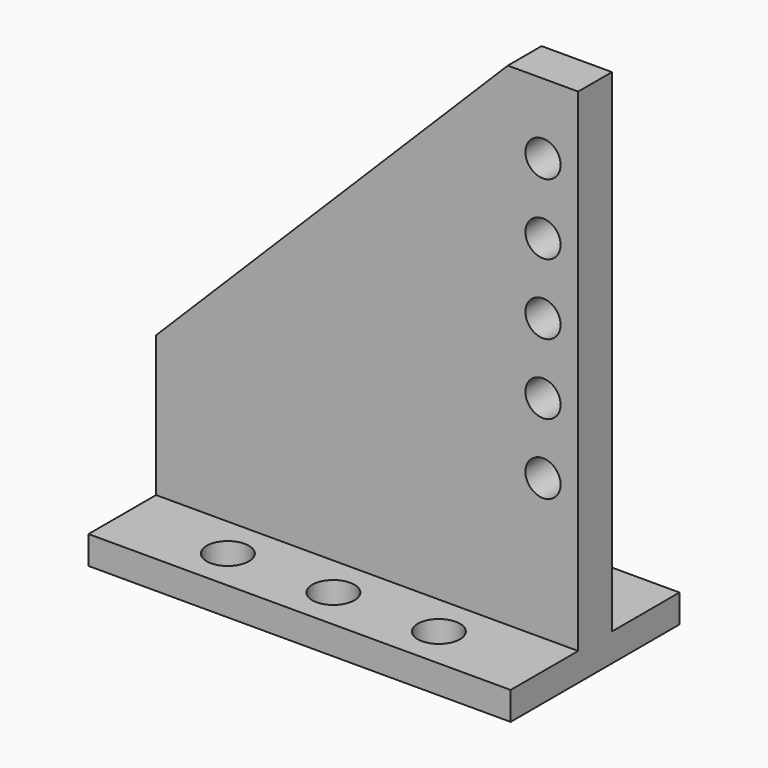
from build123d import *

# Parameters (mm, degrees)
F0_W     = 30
F0_H     = 15
F0_R     = 1.5
F1_DEPTH = 2
F2_W     = 30
F2_H     = 3
F3_DEPTH = 35
F4_SIZE  = 25
F6_D     = 2.5


with BuildPart() as f1:
    # F0 (on Top) → F1 (new body)
    with BuildSketch(Plane.XY):
        Rectangle(F0_W, F0_H)
        with Locations((-7.5, -4.5)):
            Circle(F0_R, mode=Mode.SUBTRACT)
        with Locations((0, -4.5)):
            Circle(F0_R, mode=Mode.SUBTRACT)
        with Locations((7.5, -4.5)):
            Circle(F0_R, mode=Mode.SUBTRACT)
        with Locations((-7.5, 4.5)):
            Circle(F0_R, mode=Mode.SUBTRACT)
        with Locations((0, 4.5)):
            Circle(F0_R, mode=Mode.SUBTRACT)
        with Locations((7.5, 4.5)):
            Circle(F0_R, mode=Mode.SUBTRACT)
        Rectangle(F0_W, F0_H)
        with Locations((-7.5, -4.5)):
            Circle(F0_R, mode=Mode.SUBTRACT)
        with Locations((0, -4.5)):
            Circle(F0_R, mode=Mode.SUBTRACT)
        with Locations((7.5, -4.5)):
            Circle(F0_R, mode=Mode.SUBTRACT)
        with Locations((-7.5, 4.5)):
            Circle(F0_R, mode=Mode.SUBTRACT)
        with Locations((0, 4.5)):
            Circle(F0_R, mode=Mode.SUBTRACT)
        with Locations((7.5, 4.5)):
            Circle(F0_R, mode=Mode.SUBTRACT)
    extrude(amount=F1_DEPTH)

    # F2 (on face) → F3 (join)
    with BuildSketch(Plane.XY.offset(2)):
        Rectangle(F2_W, F2_H)
    extrude(amount=F3_DEPTH)

    # F4
    f4_edges = [f1.edges().sort_by_distance(p)[0] for p in [
        (-15, 0, 37),
    ]]
    chamfer(f4_edges, length=F4_SIZE)

    # F6 (through all)
    with Locations(Plane.XZ.offset(1.5)):
        with Locations((12.5, 32), (12.5, 27), (12.5, 22), (12.5, 17), (12.5, 12)):
            Hole(F6_D / 2)


solid = f1.part
